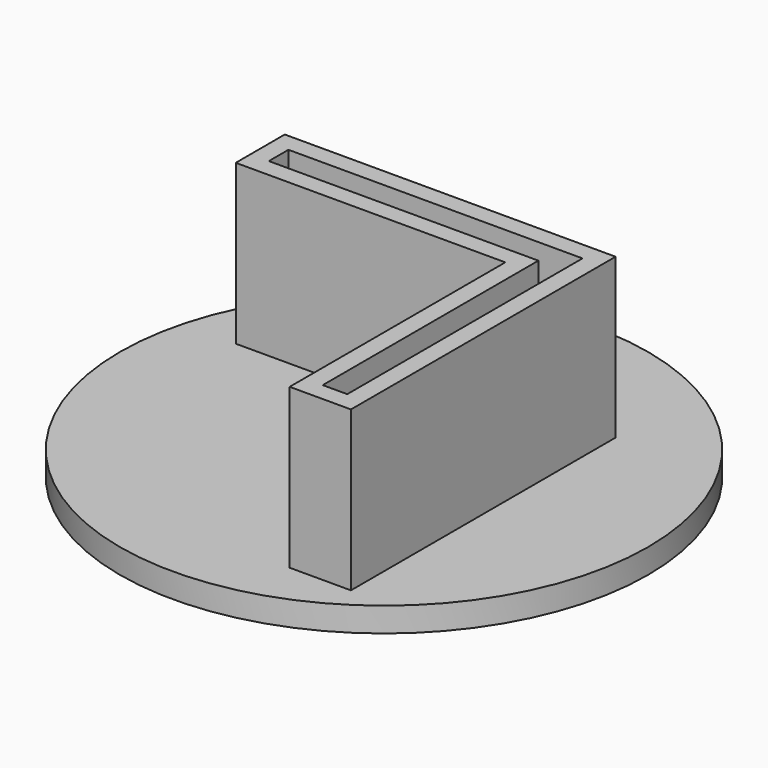
from build123d import *

# Parameters (mm, degrees)
F0_R     = 21.5576072156
F1_DEPTH = 2
F2_DEPTH = 15


with BuildPart() as f1:
    # F0 (on Top) → F1 (new body)
    with BuildSketch(Plane.XY):
        with Locations((3, 3)):
            Circle(F0_R)
        Polygon((-13.5, 13.5), (13.5, 13.5), (13.5, -13.5), (8.5, -13.5), (8.5, -8.5), (8.5, 8.5), (-8.5, 8.5), (-13.5, 8.5), align=None, mode=Mode.SUBTRACT)
        Polygon((13.5, -13.5), (13.5, 13.5), (-13.5, 13.5), (-13.5, 8.5), (-8.5, 8.5), (8.5, 8.5), (8.5, -8.5), (8.5, -13.5), align=None)
        Polygon((-12, 10), (-12, 12), (12, 12), (12, -12), (10, -12), (10, -10), (10, 10), (-10, 10), align=None, mode=Mode.SUBTRACT)
        Polygon((12, 12), (-12, 12), (-12, 10), (-10, 10), (10, 10), (10, -10), (10, -12), (12, -12), align=None)
    extrude(amount=F1_DEPTH)

    # F0 (on Top) → F2 (join)
    with BuildSketch(Plane.XY):
        Polygon((13.5, -13.5), (13.5, 13.5), (-13.5, 13.5), (-13.5, 8.5), (-8.5, 8.5), (8.5, 8.5), (8.5, -8.5), (8.5, -13.5), align=None)
        Polygon((-12, 10), (-12, 12), (12, 12), (12, -12), (10, -12), (10, -10), (10, 10), (-10, 10), align=None, mode=Mode.SUBTRACT)
    extrude(amount=F2_DEPTH)


solid = f1.part
